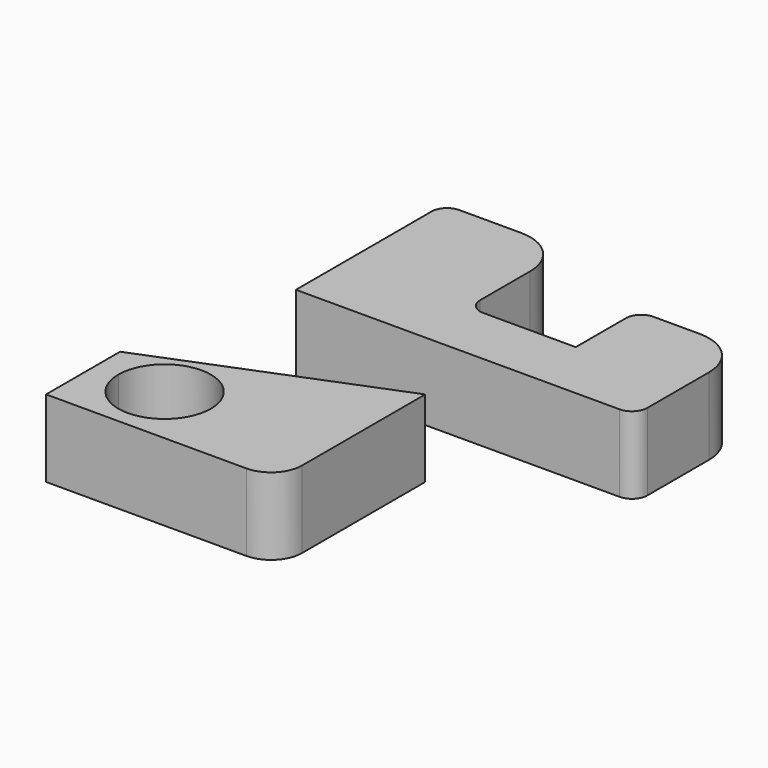
from build123d import *

# Parameters (mm, degrees)
F1_DEPTH = 25


with BuildPart() as f1:
    # F0 (on Top) → F1 (new body)
    with BuildSketch(Plane.XY):
        with BuildLine():
            ThreePointArc((-27.685185, 39.005755), (-31.220719, 37.541289), (-32.685185, 34.005755))
            Line((-32.685185, 34.005755), (-32.685185, -20.994245))
            Line((-32.685185, -20.994245), (72.314815, -20.994245))
            ThreePointArc((72.314815, -20.994245), (75.850349, -19.529779), (77.314815, -15.994245))
            Line((77.314815, -15.994245), (77.314815, 9.005755))
            ThreePointArc((77.314815, 9.005755), (72.921417, 19.612357), (62.314815, 24.005755))
            Line((62.314815, 24.005755), (47.314815, 24.005755))
            ThreePointArc((47.314815, 24.005755), (43.779281, 22.541289), (42.314815, 19.005755))
            Line((42.314815, 19.005755), (42.314815, -1.289996))
            Line((42.314815, -1.289996), (12.314815, -1.289996))
            ThreePointArc((12.314815, -1.289996), (8.779281, 0.17447), (7.314815, 3.710004))
            Line((7.314815, 3.710004), (7.314815, 24.005755))
            ThreePointArc((7.314815, 24.005755), (2.921417, 34.612357), (-7.685185, 39.005755))
            Line((-7.685185, 39.005755), (-27.685185, 39.005755))
        make_face()
        with BuildLine():
            Line((-23.74903, -100.423313), (-23.74903, -105.363107))
            Line((-23.74903, -105.363107), (18.75097, -105.363107))
            ThreePointArc((18.75097, -105.363107), (25.822038, -102.434175), (28.75097, -95.363107))
            Line((28.75097, -95.363107), (28.75097, -45.363107))
            Line((28.75097, -45.363107), (-46.24903, -75.363107))
            Line((-46.24903, -75.363107), (-46.24903, -85.423313))
            Line((-46.24903, -85.423313), (-38.74903, -85.423313))
            ThreePointArc((-38.74903, -85.423313), (-23.74903, -70.423313), (-8.74903, -85.423313))
            ThreePointArc((-8.74903, -85.423313), (-13.142428, -96.029915), (-23.74903, -100.423313))
        make_face()
        with BuildLine():
            Line((-46.24903, -85.423313), (-46.24903, -105.363107))
            Line((-46.24903, -105.363107), (-23.74903, -105.363107))
            Line((-23.74903, -105.363107), (-23.74903, -100.423313))
            ThreePointArc((-23.74903, -100.423313), (-34.355632, -96.029915), (-38.74903, -85.423313))
            Line((-38.74903, -85.423313), (-46.24903, -85.423313))
        make_face()
    extrude(amount=F1_DEPTH)


solid = f1.part
